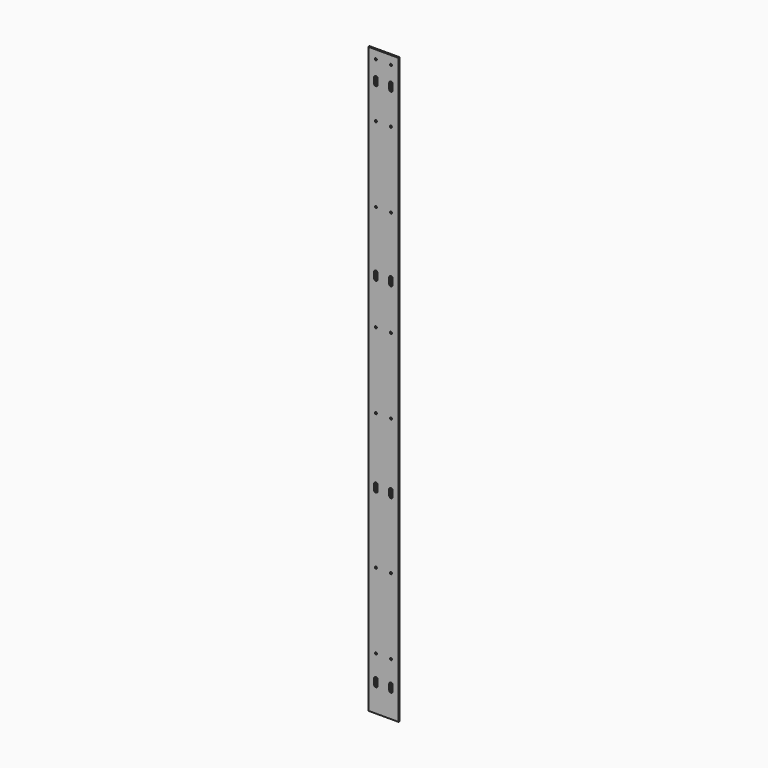
from build123d import *

# Parameters (mm, degrees)
F0_W     = 60
F0_H     = 1160
F1_DEPTH = 3
F2_R     = 2.05
F3_DEPTH = 25


with BuildPart() as f1:
    # F0 (on Front) → F1 (new body)
    with BuildSketch(Plane.XZ):
        with Locations((30, 580)):
            Rectangle(F0_W, F0_H)
        with BuildLine():
            Line((18.5, 60.5), (18.5, 49.5))
            ThreePointArc((18.5, 49.5), (15, 46), (11.5, 49.5))
            Line((11.5, 49.5), (11.5, 60.5))
            ThreePointArc((11.5, 60.5), (15, 64), (18.5, 60.5))
        make_face(mode=Mode.SUBTRACT)
        with BuildLine():
            Line((18.5, 400.5), (18.5, 389.5))
            ThreePointArc((18.5, 389.5), (15, 386), (11.5, 389.5))
            Line((11.5, 389.5), (11.5, 400.5))
            ThreePointArc((11.5, 400.5), (15, 404), (18.5, 400.5))
        make_face(mode=Mode.SUBTRACT)
        with BuildLine():
            Line((48.5, 60.5), (48.5, 49.5))
            ThreePointArc((48.5, 49.5), (45, 46), (41.5, 49.5))
            Line((41.5, 49.5), (41.5, 60.5))
            ThreePointArc((41.5, 60.5), (45, 64), (48.5, 60.5))
        make_face(mode=Mode.SUBTRACT)
        with BuildLine():
            Line((48.5, 400.5), (48.5, 389.5))
            ThreePointArc((48.5, 389.5), (45, 386), (41.5, 389.5))
            Line((41.5, 389.5), (41.5, 400.5))
            ThreePointArc((41.5, 400.5), (45, 404), (48.5, 400.5))
        make_face(mode=Mode.SUBTRACT)
        with BuildLine():
            Line((18.5, 770.5), (18.5, 759.5))
            ThreePointArc((18.5, 759.5), (15, 756), (11.5, 759.5))
            Line((11.5, 759.5), (11.5, 770.5))
            ThreePointArc((11.5, 770.5), (15, 774), (18.5, 770.5))
        make_face(mode=Mode.SUBTRACT)
        with BuildLine():
            Line((18.5, 1110.5), (18.5, 1099.5))
            ThreePointArc((18.5, 1099.5), (15, 1096), (11.5, 1099.5))
            Line((11.5, 1099.5), (11.5, 1110.5))
            ThreePointArc((11.5, 1110.5), (15, 1114), (18.5, 1110.5))
        make_face(mode=Mode.SUBTRACT)
        with BuildLine():
            Line((48.5, 770.5), (48.5, 759.5))
            ThreePointArc((48.5, 759.5), (45, 756), (41.5, 759.5))
            Line((41.5, 759.5), (41.5, 770.5))
            ThreePointArc((41.5, 770.5), (45, 774), (48.5, 770.5))
        make_face(mode=Mode.SUBTRACT)
        with BuildLine():
            Line((48.5, 1110.5), (48.5, 1099.5))
            ThreePointArc((48.5, 1099.5), (45, 1096), (41.5, 1099.5))
            Line((41.5, 1099.5), (41.5, 1110.5))
            ThreePointArc((41.5, 1110.5), (45, 1114), (48.5, 1110.5))
        make_face(mode=Mode.SUBTRACT)
    extrude(amount=F1_DEPTH)

    # F2 (on face) → F3 (cut)
    with BuildSketch(Plane.XZ.offset(3)):
        with Locations((15, 105)):
            Circle(F2_R)
        with Locations((45, 105)):
            Circle(F2_R)
        with Locations((15, 255)):
            Circle(F2_R)
        with Locations((45, 255)):
            Circle(F2_R)
        with Locations((15, 525)):
            Circle(F2_R)
        with Locations((45, 525)):
            Circle(F2_R)
        with Locations((15, 675)):
            Circle(F2_R)
        with Locations((45, 675)):
            Circle(F2_R)
        with Locations((15, 885)):
            Circle(F2_R)
        with Locations((45, 885)):
            Circle(F2_R)
        with Locations((15, 1035)):
            Circle(F2_R)
        with Locations((45, 1035)):
            Circle(F2_R)
        with Locations((15, 1143)):
            Circle(F2_R)
        with Locations((45, 1143)):
            Circle(F2_R)
    extrude(amount=-F3_DEPTH, mode=Mode.SUBTRACT)


solid = f1.part
